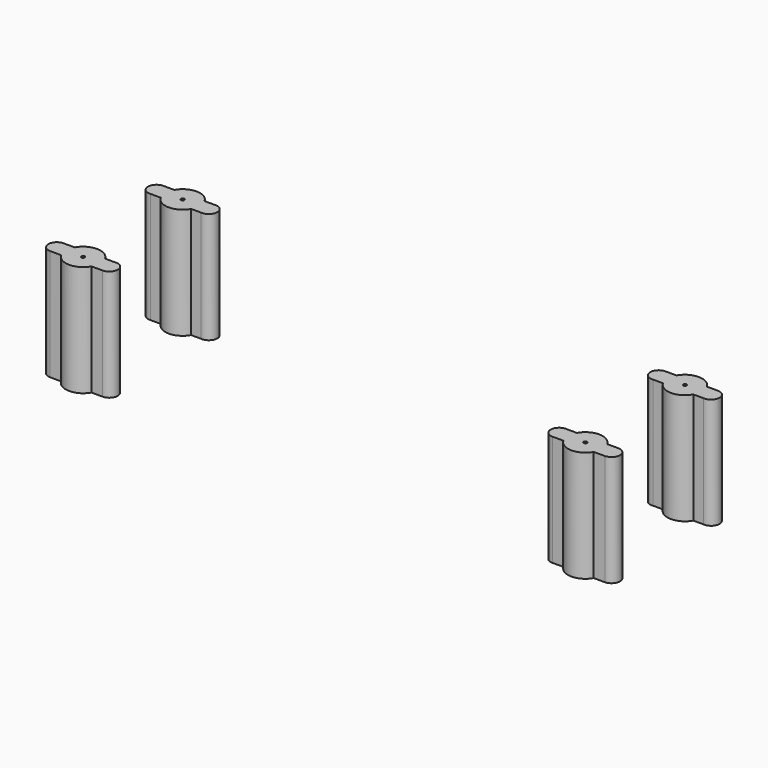
from build123d import *

# Parameters (mm, degrees)
F0_R     = 0.379244
F1_DEPTH = 25


with BuildPart() as f1:
    # F0 (on Top) → F1 (new body)
    with BuildSketch(Plane.XY):
        with BuildLine():
            Line((-50.605683, 15.905683), (-53.097299, 15.905683))
            ThreePointArc((-53.097299, 15.905683), (-56.5, 17.9), (-59.902701, 15.905683))
            Line((-59.902701, 15.905683), (-62.394317, 15.905683))
            ThreePointArc((-62.394317, 15.905683), (-64.297156, 13.89593), (-62.186488, 12.105683))
            Line((-62.186488, 12.105683), (-59.909042, 12.105683))
            ThreePointArc((-59.909042, 12.105683), (-56.5, 10.1), (-53.090958, 12.105683))
            Line((-53.090958, 12.105683), (-50.813512, 12.105683))
            ThreePointArc((-50.813512, 12.105683), (-48.702844, 13.89593), (-50.605683, 15.905683))
        make_face()
        with Locations((-56.5, 14)):
            Circle(F0_R, mode=Mode.SUBTRACT)
        with BuildLine():
            ThreePointArc((-53.090958, -12.105683), (-56.5, -10.1), (-59.909042, -12.105683))
            ThreePointArc((-59.909042, -12.105683), (-60.399995, -14.006508), (-59.902701, -15.905683))
            ThreePointArc((-59.902701, -15.905683), (-56.5, -17.9), (-53.097299, -15.905683))
            ThreePointArc((-53.097299, -15.905683), (-52.726372, -14.984751), (-52.6, -14))
            ThreePointArc((-52.6, -14), (-52.724734, -13.021548), (-53.090958, -12.105683))
        make_face()
        with Locations((-56.5, -14)):
            Circle(F0_R, mode=Mode.SUBTRACT)
        with BuildLine():
            Line((-50.813512, -12.105683), (-53.090958, -12.105683))
            ThreePointArc((-53.090958, -12.105683), (-52.724734, -13.021548), (-52.6, -14))
            ThreePointArc((-52.6, -14), (-52.726372, -14.984751), (-53.097299, -15.905683))
            Line((-53.097299, -15.905683), (-50.605683, -15.905683))
            ThreePointArc((-50.605683, -15.905683), (-48.702844, -13.89593), (-50.813512, -12.105683))
        make_face()
        with BuildLine():
            ThreePointArc((-59.902701, -15.905683), (-60.399995, -14.006508), (-59.909042, -12.105683))
            Line((-59.909042, -12.105683), (-62.186488, -12.105683))
            ThreePointArc((-62.186488, -12.105683), (-64.297156, -13.89593), (-62.394317, -15.905683))
            Line((-62.394317, -15.905683), (-59.902701, -15.905683))
        make_face()
        with BuildLine():
            ThreePointArc((53.097299, -15.905683), (52.600005, -14.006508), (53.090958, -12.105683))
            Line((53.090958, -12.105683), (50.813512, -12.105683))
            ThreePointArc((50.813512, -12.105683), (48.702844, -13.89593), (50.605683, -15.905683))
            Line((50.605683, -15.905683), (53.097299, -15.905683))
        make_face()
        with BuildLine():
            ThreePointArc((59.909042, -12.105683), (56.5, -10.1), (53.090958, -12.105683))
            ThreePointArc((53.090958, -12.105683), (52.600005, -14.006508), (53.097299, -15.905683))
            ThreePointArc((53.097299, -15.905683), (56.5, -17.9), (59.902701, -15.905683))
            ThreePointArc((59.902701, -15.905683), (60.273628, -14.984751), (60.4, -14))
            ThreePointArc((60.4, -14), (60.275266, -13.021548), (59.909042, -12.105683))
        make_face()
        with Locations((56.5, -14)):
            Circle(F0_R, mode=Mode.SUBTRACT)
        with BuildLine():
            Line((62.186488, -12.105683), (59.909042, -12.105683))
            ThreePointArc((59.909042, -12.105683), (60.275266, -13.021548), (60.4, -14))
            ThreePointArc((60.4, -14), (60.273628, -14.984751), (59.902701, -15.905683))
            Line((59.902701, -15.905683), (62.394317, -15.905683))
            ThreePointArc((62.394317, -15.905683), (64.297156, -13.89593), (62.186488, -12.105683))
        make_face()
        with BuildLine():
            Line((62.394317, 15.905683), (59.902701, 15.905683))
            ThreePointArc((59.902701, 15.905683), (60.273628, 14.984751), (60.4, 14))
            ThreePointArc((60.4, 14), (60.275266, 13.021548), (59.909042, 12.105683))
            Line((59.909042, 12.105683), (62.186488, 12.105683))
            ThreePointArc((62.186488, 12.105683), (64.297156, 13.89593), (62.394317, 15.905683))
        make_face()
        with BuildLine():
            ThreePointArc((59.902701, 15.905683), (56.5, 17.9), (53.097299, 15.905683))
            ThreePointArc((53.097299, 15.905683), (52.600005, 14.006508), (53.090958, 12.105683))
            ThreePointArc((53.090958, 12.105683), (56.5, 10.1), (59.909042, 12.105683))
            ThreePointArc((59.909042, 12.105683), (60.275266, 13.021548), (60.4, 14))
            ThreePointArc((60.4, 14), (60.273628, 14.984751), (59.902701, 15.905683))
        make_face()
        with Locations((56.5, 14)):
            Circle(F0_R, mode=Mode.SUBTRACT)
        with BuildLine():
            ThreePointArc((53.090958, 12.105683), (52.600005, 14.006508), (53.097299, 15.905683))
            Line((53.097299, 15.905683), (50.605683, 15.905683))
            ThreePointArc((50.605683, 15.905683), (48.702844, 13.89593), (50.813512, 12.105683))
            Line((50.813512, 12.105683), (53.090958, 12.105683))
        make_face()
    extrude(amount=F1_DEPTH)


solid = f1.part
